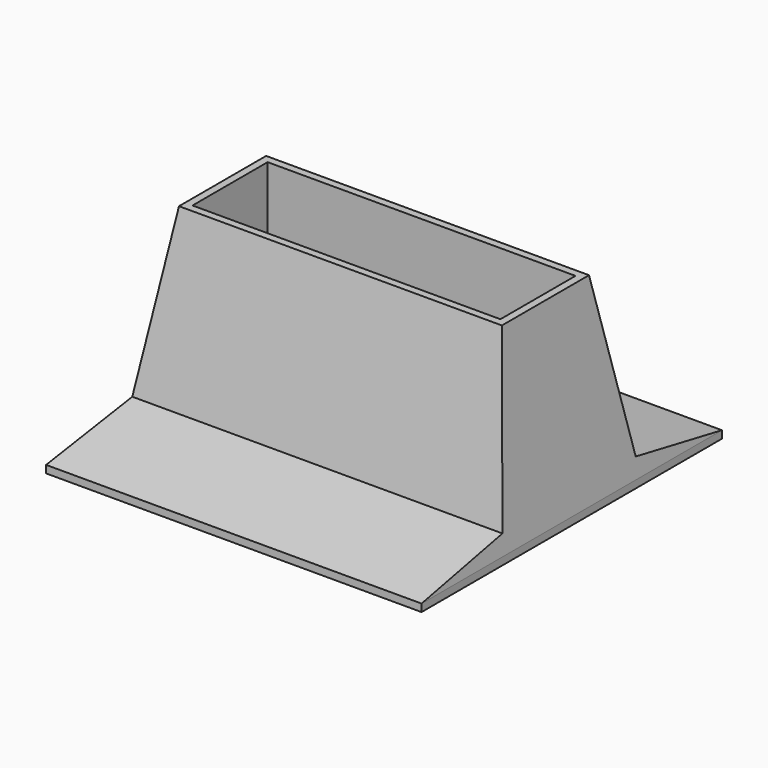
from build123d import *

# Parameters (mm, degrees)
F0_W          = 100
F0_H          = 100
F0_W_2        = 82
F0_H_2        = 25
F1_DEPTH      = 16.5
F2_DEPTH      = 34
F4_DEPTH      = 100.001
F6_DEPTH      = 50.001
F6_DEPTH_BACK = 50.001
F7_W          = 70
F7_H          = 16
F8_DEPTH      = 16.501


with BuildPart() as f1:
    # F0 (on Top) → F1 (new body)
    with BuildSketch(Plane.XY):
        Rectangle(F0_W, F0_H)
        Rectangle(F0_W_2, F0_H_2, mode=Mode.SUBTRACT)
        Rectangle(F0_W_2, F0_H_2)
    extrude(amount=-F1_DEPTH)

    # F0 (on Top) → F2 (join)
    with BuildSketch(Plane.XY):
        Rectangle(F0_W, F0_H)
        Rectangle(F0_W_2, F0_H_2, mode=Mode.SUBTRACT)
    extrude(amount=F2_DEPTH)

    # F3 (on face) → F4 (cut, through all)
    with BuildSketch(Plane(origin=(-50, 0, 0), x_dir=(0, -1, 0), z_dir=(-1, 0, 0))):
        Polygon((50, 34), (14.5, 34), (22.1871227195, -9.5958393243), (50, -14.5), align=None)
        Polygon((-22.1871227195, -9.5958393243), (-14.5, 34), (-50, 34), (-50, -14.5), align=None)
    extrude(amount=-F4_DEPTH, mode=Mode.SUBTRACT)

    # F5 (on Front) → F6 (cut, two sides)
    with BuildSketch(Plane.XZ) as f6_sk:
        Polygon((-50, -14.5), (-43, 34), (-50, 34), align=None)
        Polygon((50, 34), (43, 34), (50, -14.5), align=None)
    extrude(amount=-F6_DEPTH, mode=Mode.SUBTRACT)
    extrude(f6_sk.sketch, amount=F6_DEPTH_BACK, mode=Mode.SUBTRACT)

    # F7 (on face) → F8 (cut, through all)
    with BuildSketch(Plane.XY):
        Rectangle(F7_W, F7_H)
    extrude(amount=-F8_DEPTH, mode=Mode.SUBTRACT)


solid = f1.part
